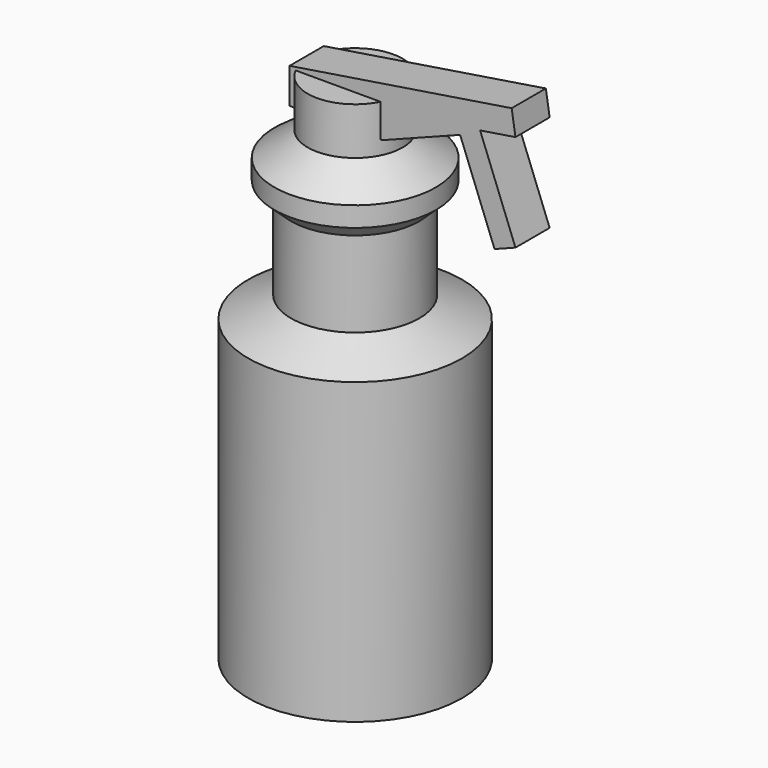
from build123d import *

# Parameters (mm, degrees)
F3_DEPTH      = 12.7
F3_DEPTH_BACK = 12.7


with BuildPart() as f1:
    # F0 (on Front) → F1 (revolve)
    with BuildSketch(Plane.XZ):
        Polygon((0, 304.8), (0, 0), (63.5, 0), (63.5, 177.8), (38.1, 190.5), (38.1, 241.3), (47.998823, 250.417948), (47.998823, 262.253284), (28.237745, 276.70753), (28.237745, 304.8), align=None)
    revolve(axis=Axis((0, 0, 152.4), (0, 0, 1)))


with BuildPart() as f3:
    # F2 (on Front) → F3 (new body, two sides)
    with BuildSketch(Plane.XZ) as f3_sk:
        Polygon((103.162251, 326.787472), (-28.829439, 306.034058), (-28.829439, 285.060575), (26.303578, 285.060575), (72.533806, 302.876479), (92.99758, 249.775329), (105.427776, 254.565597), (84.420995, 309.075786), (105.427776, 312.37874), align=None)
    extrude(amount=F3_DEPTH)
    extrude(f3_sk.sketch, amount=-F3_DEPTH_BACK)


solid = Compound([f1.part, f3.part])
